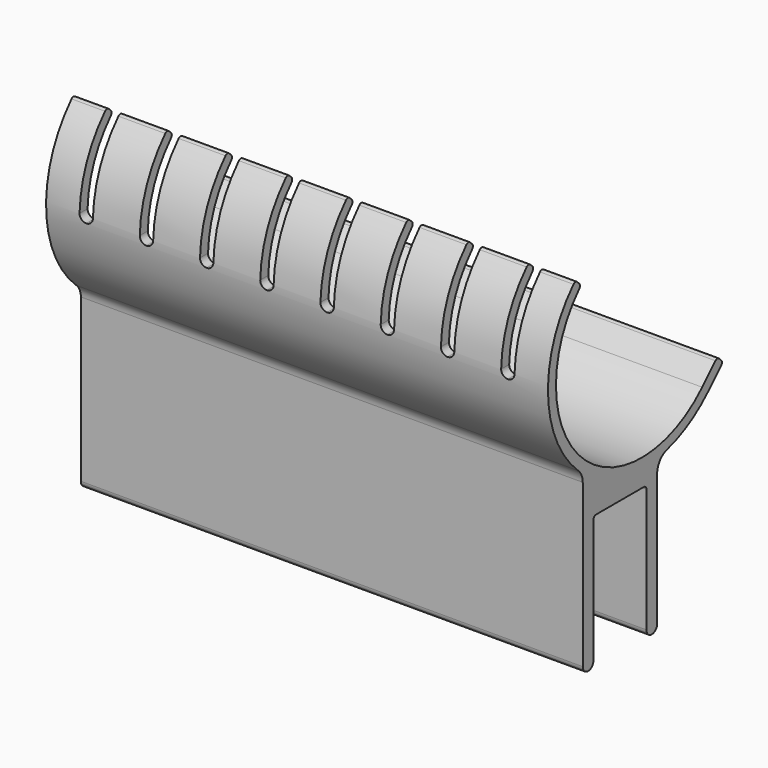
from build123d import *

# Parameters (mm, degrees)
F1_DEPTH = 150
F3_DEPTH = 25


with BuildPart() as f1:
    # F0 (on Right) → F1 (new body)
    with BuildSketch(Plane.YZ):
        with BuildLine():
            ThreePointArc((0, 39), (0.292893, 39.707107), (1, 40))
            Line((1, 40), (18.8, 40))
            ThreePointArc((18.8, 40), (19.507107, 39.707107), (19.8, 39))
            Line((19.8, 39), (19.8, 2))
            ThreePointArc((19.8, 2), (20.385786, 0.585786), (21.8, 0))
            ThreePointArc((21.8, 0), (23.214214, 0.585786), (23.8, 2))
            Line((23.8, 2), (23.8, 41.485587))
            ThreePointArc((23.8, 41.485587), (24.815656, 44.506349), (27.45, 46.299889))
            ThreePointArc((27.45, 46.299889), (35.675412, 49.791064), (42.748737, 55.251263))
            Line((42.748737, 55.251263), (47.698485, 60.20101))
            ThreePointArc((47.698485, 60.20101), (47.991378, 60.908117), (47.698485, 61.615224))
            Line((47.698485, 61.615224), (46.991378, 62.32233))
            ThreePointArc((46.991378, 62.32233), (46.284271, 62.615224), (45.577164, 62.32233))
            Line((45.577164, 62.32233), (40.627417, 57.372583))
            ThreePointArc((40.627417, 57.372583), (-4.28194, 57.032302), (-5.302705, 101.931346))
            ThreePointArc((-5.302705, 101.931346), (-5.031029, 102.631854), (-5.323808, 103.323808))
            Line((-5.323808, 103.323808), (-6.03123, 104.03123))
            ThreePointArc((-6.03123, 104.03123), (-6.753044, 104.324015), (-7.465935, 104.010127))
            ThreePointArc((-7.465935, 104.010127), (-16.976143, 78.707928), (-5.625, 54.17638))
            ThreePointArc((-5.625, 54.17638), (-4.424249, 52.502855), (-4, 50.487291))
            Line((-4, 50.487291), (-4, 2))
            ThreePointArc((-4, 2), (-3.414214, 0.585786), (-2, 0))
            ThreePointArc((-2, 0), (-0.585786, 0.585786), (0, 2))
            Line((0, 2), (0, 39))
        make_face()
    extrude(amount=F1_DEPTH)

    # F2 (on Front) → F3 (cut)
    with BuildSketch(Plane.XZ):
        with BuildLine():
            Line((14, 114.010127), (10, 114.010127))
            Line((10, 114.010127), (10, 81.010127))
            ThreePointArc((10, 81.010127), (10.585786, 79.595913), (12, 79.010127))
            ThreePointArc((12, 79.010127), (13.414214, 79.595913), (14, 81.010127))
            Line((14, 81.010127), (14, 114.010127))
        make_face()
        with BuildLine():
            Line((32, 81.010127), (32, 114.010127))
            Line((32, 114.010127), (28, 114.010127))
            Line((28, 114.010127), (28, 81.010127))
            ThreePointArc((28, 81.010127), (28.585786, 79.595913), (30, 79.010127))
            ThreePointArc((30, 79.010127), (31.414214, 79.595913), (32, 81.010127))
        make_face()
        with BuildLine():
            Line((50, 81.010127), (50, 114.010127))
            Line((50, 114.010127), (46, 114.010127))
            Line((46, 114.010127), (46, 81.010127))
            ThreePointArc((46, 81.010127), (46.585786, 79.595913), (48, 79.010127))
            ThreePointArc((48, 79.010127), (49.414214, 79.595913), (50, 81.010127))
        make_face()
        with BuildLine():
            Line((68, 81.010127), (68, 114.010127))
            Line((68, 114.010127), (64, 114.010127))
            Line((64, 114.010127), (64, 81.010127))
            ThreePointArc((64, 81.010127), (64.585786, 79.595913), (66, 79.010127))
            ThreePointArc((66, 79.010127), (67.414214, 79.595913), (68, 81.010127))
        make_face()
        with BuildLine():
            Line((86, 81.010127), (86, 114.010127))
            Line((86, 114.010127), (82, 114.010127))
            Line((82, 114.010127), (82, 81.010127))
            ThreePointArc((82, 81.010127), (82.585786, 79.595913), (84, 79.010127))
            ThreePointArc((84, 79.010127), (85.414214, 79.595913), (86, 81.010127))
        make_face()
        with BuildLine():
            Line((104, 81.010127), (104, 114.010127))
            Line((104, 114.010127), (100, 114.010127))
            Line((100, 114.010127), (100, 81.010127))
            ThreePointArc((100, 81.010127), (100.585786, 79.595913), (102, 79.010127))
            ThreePointArc((102, 79.010127), (103.414214, 79.595913), (104, 81.010127))
        make_face()
        with BuildLine():
            Line((122, 81.010127), (122, 114.010127))
            Line((122, 114.010127), (118, 114.010127))
            Line((118, 114.010127), (118, 81.010127))
            ThreePointArc((118, 81.010127), (118.585786, 79.595913), (120, 79.010127))
            ThreePointArc((120, 79.010127), (121.414214, 79.595913), (122, 81.010127))
        make_face()
        with BuildLine():
            Line((140, 81.010127), (140, 114.010127))
            Line((140, 114.010127), (136, 114.010127))
            Line((136, 114.010127), (136, 81.010127))
            ThreePointArc((136, 81.010127), (136.585786, 79.595913), (138, 79.010127))
            ThreePointArc((138, 79.010127), (139.414214, 79.595913), (140, 81.010127))
        make_face()
    extrude(amount=F3_DEPTH, mode=Mode.SUBTRACT)


solid = f1.part
